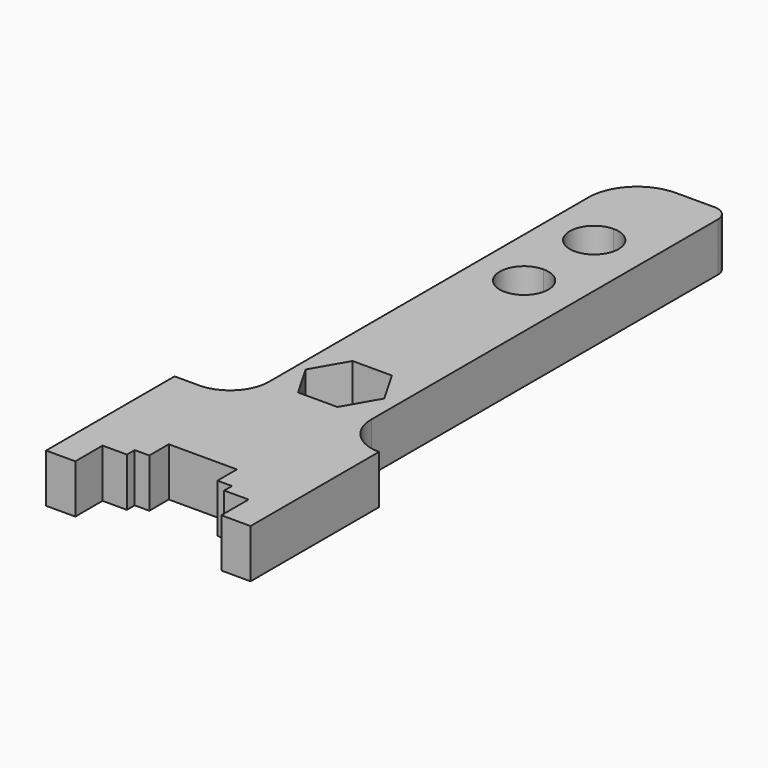
from build123d import *

# Parameters (mm, degrees)
F1_DEPTH = 254


with BuildPart() as f1:
    # F0 (on Top) → F1 (new body)
    with BuildSketch(Plane.XY):
        with BuildLine():
            Line((0, 838.2), (0, 0))
            Line((0, 0), (152.4, 0))
            Line((152.4, 0), (152.4, 177.8))
            Line((152.4, 177.8), (279.4, 177.8))
            Line((279.4, 177.8), (279.4, 228.6))
            Line((279.4, 228.6), (355.6, 228.6))
            Line((355.6, 228.6), (355.6, 355.6))
            Line((355.6, 355.6), (533.4, 355.6))
            Line((533.4, 355.6), (711.2, 355.6))
            Line((711.2, 355.6), (711.2, 228.6))
            Line((711.2, 228.6), (787.4, 228.6))
            Line((787.4, 228.6), (787.4, 177.8))
            Line((787.4, 177.8), (914.4, 177.8))
            Line((914.4, 177.8), (914.4, 0))
            Line((914.4, 0), (1066.8, 0))
            Line((1066.8, 0), (1066.8, 838.2))
            ThreePointArc((1066.8, 838.2), (923.115902, 897.715902), (863.6, 1041.4))
            Line((863.6, 1041.4), (863.6, 3302))
            ThreePointArc((863.6, 3302), (841.281537, 3355.881537), (787.4, 3378.2))
            Line((787.4, 3378.2), (584.2, 3378.2))
            ThreePointArc((584.2, 3378.2), (404.594878, 3303.805122), (330.2, 3124.2))
            Line((330.2, 3124.2), (330.2, 1041.4))
            ThreePointArc((330.2, 1041.4), (270.684098, 897.715902), (127, 838.2))
            Line((127, 838.2), (0, 838.2))
        make_face()
        Polygon((481.547122, 1397), (584.2, 1397), (686.852878, 1397), (789.505756, 1219.2), (686.852878, 1041.4), (481.547122, 1041.4), (378.894244, 1219.2), align=None, mode=Mode.SUBTRACT)
        with BuildLine():
            ThreePointArc((584.2, 2260.6), (457.2, 2387.6), (584.2, 2514.6))
            ThreePointArc((584.2, 2514.6), (674.002561, 2477.402561), (711.2, 2387.6))
            ThreePointArc((711.2, 2387.6), (674.002561, 2297.797439), (584.2, 2260.6))
        make_face(mode=Mode.SUBTRACT)
        with BuildLine():
            ThreePointArc((584.2, 2717.8), (457.2, 2844.8), (584.2, 2971.8))
            ThreePointArc((584.2, 2971.8), (674.002561, 2934.602561), (711.2, 2844.8))
            ThreePointArc((711.2, 2844.8), (674.002561, 2754.997439), (584.2, 2717.8))
        make_face(mode=Mode.SUBTRACT)
    extrude(amount=F1_DEPTH)


solid = f1.part
